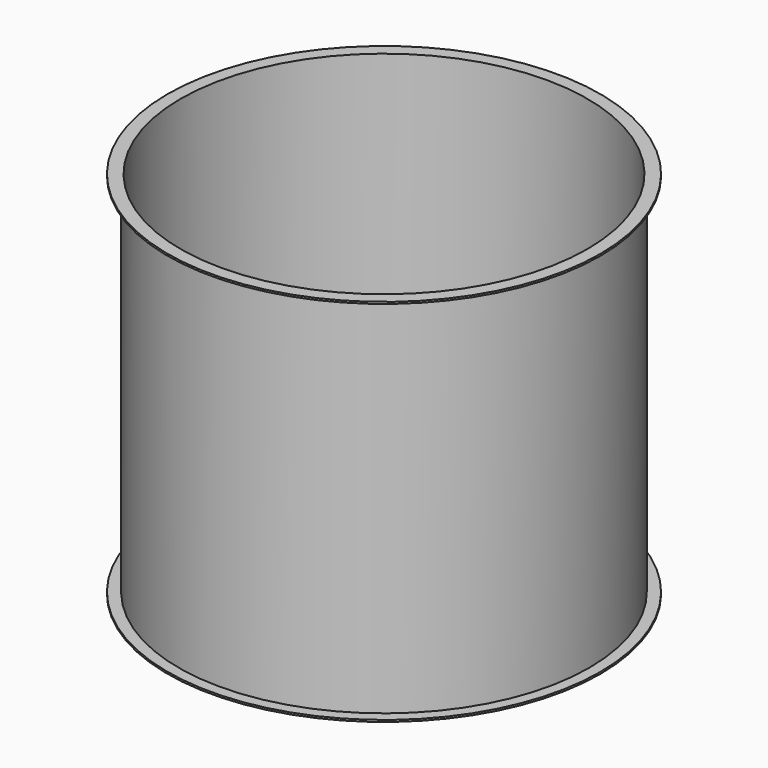
from build123d import *


with BuildPart() as f1:
    # F0 (on Front) → F1 (revolve)
    with BuildSketch(Plane.XZ):
        Polygon((-110, 0), (-110, 100), (-117, 100), (-117, 99), (-111, 99), (-111, 0), align=None)
        Polygon((-110, -100), (-110, 0), (-111, 0), (-111, -99), (-117, -99), (-117, -100), align=None)
    revolve(axis=Axis((0, 0, 50), (0, 0, -1)))


solid = f1.part
